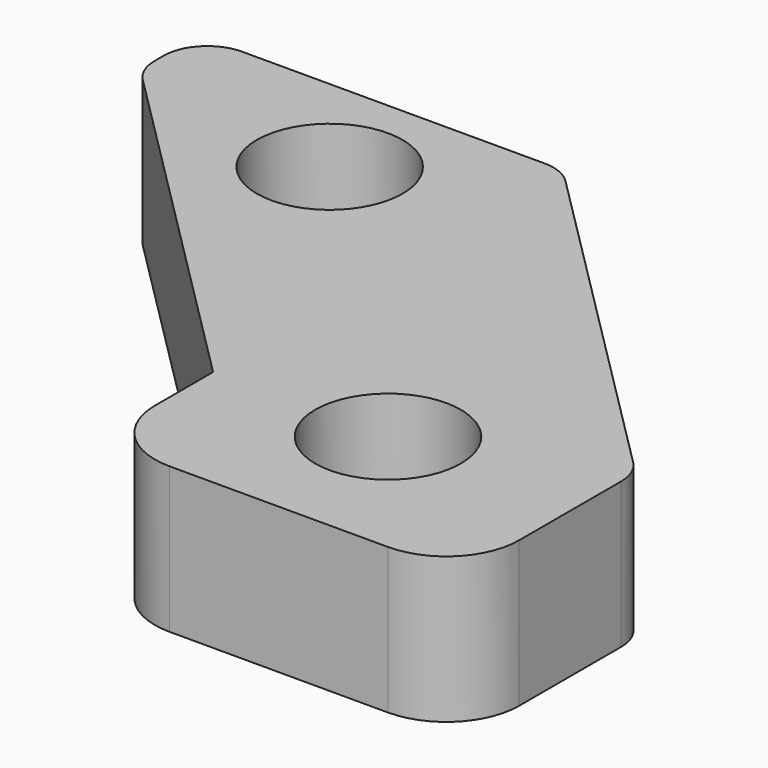
from build123d import *

# Parameters (mm, degrees)
F0_W     = 127
F0_H     = 76.2
F1_DEPTH = 25.4
F2_SIZE  = 63.5
F3_W     = 63.5
F3_H     = 25.4
F4_DEPTH = 25.4
F5_SIZE  = 63.5
F6_R     = 12.7
F7_R     = 7.62
F9_D     = 25.4
F11_D    = 25.4


with BuildPart() as f1:
    # F0 (on Top) → F1 (new body)
    with BuildSketch(Plane.XY):
        Rectangle(F0_W, F0_H)
    extrude(amount=F1_DEPTH)

    # F2
    f2_edges = [f1.edges().sort_by_distance(p)[0] for p in [
        (-63.5, -38.1, 12.7),
    ]]
    chamfer(f2_edges, length=F2_SIZE)

    # F3 (on face) → F4 (join)
    with BuildSketch(Plane.XZ.offset(38.1)):
        with Locations((31.75, 12.7)):
            Rectangle(F3_W, F3_H)
    extrude(amount=F4_DEPTH)

    # F5
    f5_edges = [f1.edges().sort_by_distance(p)[0] for p in [
        (63.5, 38.1, 12.7),
    ]]
    chamfer(f5_edges, length=F5_SIZE)

    # F6
    f6_edges = [f1.edges().sort_by_distance(p)[0] for p in [
        (63.5, -63.5, 12.7),
        (0, -63.5, 12.7),
    ]]
    fillet(f6_edges, radius=F6_R)

    # F7
    f7_edges = [f1.edges().sort_by_distance(p)[0] for p in [
        (-63.5, 25.4, 12.7),
        (-63.5, 38.1, 12.7),
        (0, 38.1, 12.7),
        (63.5, -25.4, 12.7),
    ]]
    fillet(f7_edges, radius=F7_R)

    # F9 (through all)
    with Locations(Plane.XY.offset(25.4)):
        with Locations((30.48, -38.1)):
            Hole(F9_D / 2)

    # F11 (through all)
    with Locations(Plane.XY.offset(25.4)):
        with Locations((-25.4, 19.05)):
            Hole(F11_D / 2)


solid = f1.part
